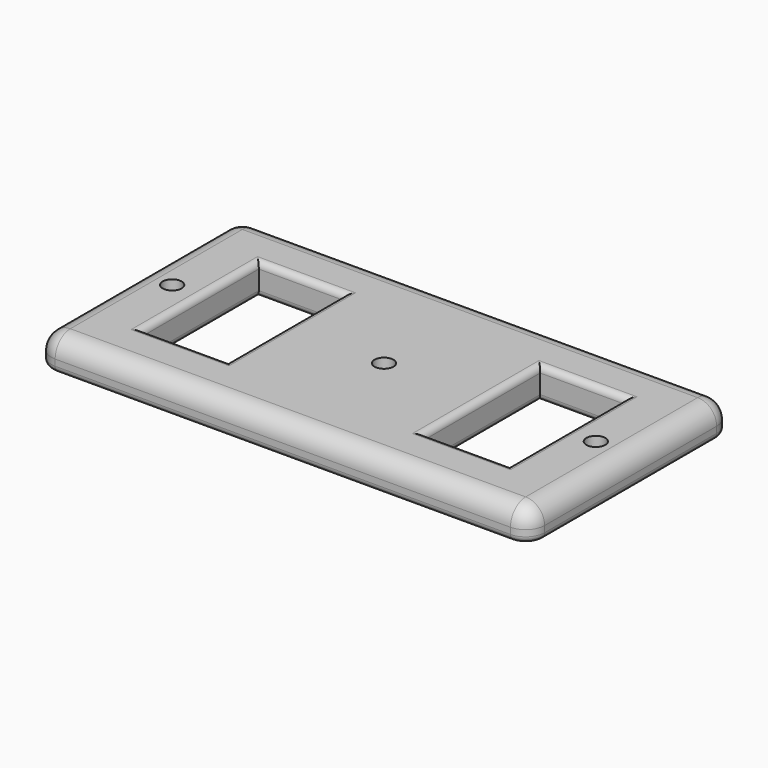
from build123d import *

# Parameters (mm, degrees)
F0_R     = 1.5
F0_W     = 13.5
F0_H     = 23
F1_DEPTH = 5
F2_R     = 3
F3_R     = 1
F4_R     = 1


with BuildPart() as f1:
    # F0 (on Top) → F1 (new body)
    with BuildSketch(Plane.XY):
        Polygon((0, 20), (-39, 20), (-39, -20), (39, -20), (39, 0), (39, 20), align=None)
        with Locations((-33.5, 0)):
            Circle(F0_R, mode=Mode.SUBTRACT)
        with Locations((-22.25, 0)):
            Rectangle(F0_W, F0_H, mode=Mode.SUBTRACT)
        Circle(F0_R, mode=Mode.SUBTRACT)
        Polygon((15.5, 11.5), (29, 11.5), (29, 0), (29, -11.5), (15.5, -11.5), align=None, mode=Mode.SUBTRACT)
        with Locations((33.5, 0)):
            Circle(F0_R, mode=Mode.SUBTRACT)
    extrude(amount=F1_DEPTH)

    # F2
    f2_edges = [f1.edges().sort_by_distance(p)[0] for p in [
        (0, 20, 5),
        (-39, 0, 5),
        (0, -20, 5),
        (39, 0, 5),
        (-39, -20, 2.5),
        (-39, 20, 2.5),
        (39, 20, 2.5),
        (39, -20, 2.5),
    ]]
    fillet(f2_edges, radius=F2_R)

    # F3
    f3_edges = [f1.edges().sort_by_distance(p)[0] for p in [
        (0, -20, 0),
    ]]
    fillet(f3_edges, radius=F3_R)

    # F4
    f4_edges = [f1.edges().sort_by_distance(p)[0] for p in [
        (-22.25, -11.5, 5),
        (-15.5, 0, 5),
        (-22.25, 11.5, 5),
        (-29, 0, 5),
        (15.5, 0, 5),
        (22.25, 11.5, 5),
        (29, 0, 5),
        (22.25, -11.5, 5),
        (-29, 0, 0),
        (-15.5, 0, 0),
        (-22.25, 11.5, 0),
        (-22.25, -11.5, 0),
        (22.25, -11.5, 0),
        (29, 0, 0),
        (22.25, 11.5, 0),
        (15.5, 0, 0),
    ]]
    fillet(f4_edges, radius=F4_R)


solid = f1.part
